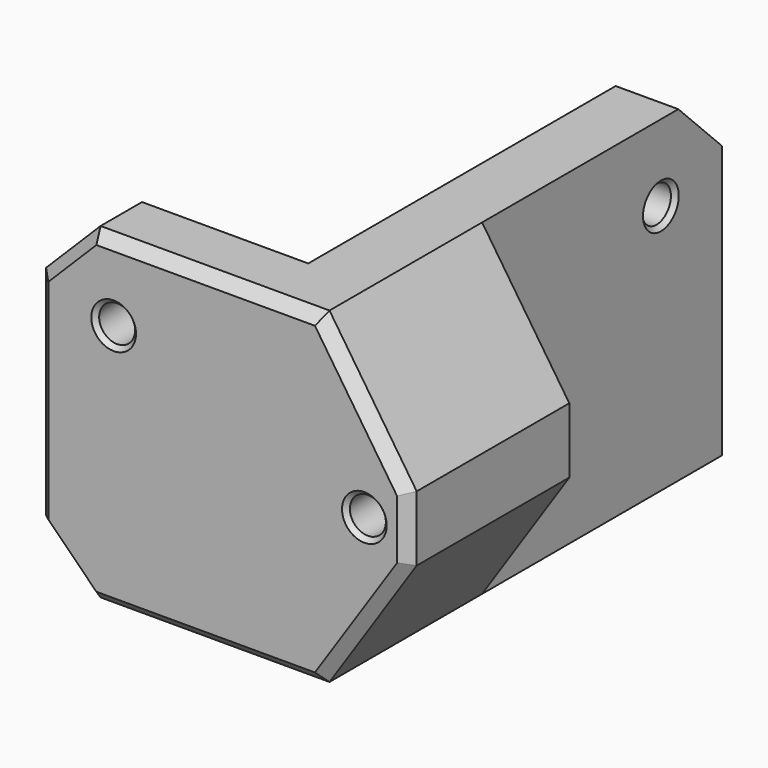
from build123d import *

# Parameters (mm, degrees)
SKETCH097_W              = 26
SKETCH097_H              = 46
PAD029_DEPTH             = 30
POCKET062_DEPTH          = 5
SKETCH099_W              = 20.25
SKETCH099_H              = 40.5
POCKET063_DEPTH          = 25
SKETCH100_R              = 1.6
PAD030_DEPTH             = 3
SKETCH101_W              = 8
SKETCH101_H              = 18.5
PAD031_DEPTH             = 30
POCKET064_DEPTH          = 46.001
SKETCH103_R              = 1.65
POCKET065_DEPTH          = 46.001
SKETCH104_R              = 1.65
POCKET066_DEPTH          = 26.001
CHAMFER009002001002_SIZE = 5
CHAMFER009002001003_SIZE = 5
CHAMFER009002001004_SIZE = 1
CHAMFER009002001005_SIZE = 0.4


with BuildPart() as part:
    # Sketch097 → Pad029 (new body)
    with BuildSketch(Plane.XY):
        with Locations((13, -3)):
            Rectangle(SKETCH097_W, SKETCH097_H)
    extrude(amount=PAD029_DEPTH)

    # Sketch098 (on Face5 of Pad029) → Pocket062 (cut)
    with BuildSketch(Plane(origin=(0, 0, 0), x_dir=(1, 0, 0), z_dir=(0, 0, -1))):
        with BuildLine():
            ThreePointArc((-6.067125, 20), (-14.778532, -14.778532), (20, -6.067125))
            Line((20, 6.067125), (20, -6.067125))
            ThreePointArc((20, 6.067125), (14.778532, 14.778532), (6.067125, 20))
            Line((-6.067125, 20), (6.067125, 20))
        make_face()
    extrude(amount=-POCKET062_DEPTH, mode=Mode.SUBTRACT)

    # Sketch099 (on Face6 of Pocket062) → Pocket063 (cut)
    with BuildSketch(Plane.XY.offset(30)):
        with Locations((10.125, 0)):
            Rectangle(SKETCH099_W, SKETCH099_H)
    extrude(amount=-POCKET063_DEPTH, mode=Mode.SUBTRACT)

    # Sketch100 (on Face7 of Pocket063) → Pad030 (join)
    with BuildSketch(Plane.XY.offset(5)):
        with Locations((16, 16)):
            Circle(SKETCH100_R)
        with Locations((16, -16)):
            Circle(SKETCH100_R)
    extrude(amount=PAD030_DEPTH)

    # Sketch101 (on Face5 of Pad030) → Pad031 (join)
    with BuildSketch(Plane.XY.offset(30)):
        with Locations((30, -16.75)):
            Rectangle(SKETCH101_W, SKETCH101_H)
    extrude(amount=-PAD031_DEPTH)

    # Sketch102 (on Face19 of Pad031) → Pocket064 (cut, through all)
    with BuildSketch(Plane.XZ.offset(26)):
        Polygon((34, 12), (26, 0), (34, 0), align=None)
        Polygon((34, 30), (26, 30), (34, 18), align=None)
    extrude(amount=-POCKET064_DEPTH, mode=Mode.SUBTRACT)

    # Sketch103 (on Face21 of Pocket064) → Pocket065 (cut, through all)
    with BuildSketch(Plane.XZ.offset(26)):
        with Locations((7, 23)):
            Circle(SKETCH103_R)
        with Locations((30, 15)):
            Circle(SKETCH103_R)
    extrude(amount=-POCKET065_DEPTH, mode=Mode.SUBTRACT)

    # Sketch104 (on Face4 of Pocket065) → Pocket066 (cut, through all)
    with BuildSketch(Plane.YZ.offset(26)):
        with Locations((13, 23)):
            Circle(SKETCH104_R)
    extrude(amount=-POCKET066_DEPTH, mode=Mode.SUBTRACT)

    # Chamfer009002001002
    chamfer009002001002_edges = [part.edges().sort_by_distance(p)[0] for p in [
        (0, -23.125, 30),
        (23.125, 20, 30),
        (0, -23, 0),
    ]]
    chamfer(chamfer009002001002_edges, length=CHAMFER009002001002_SIZE)

    # Chamfer009002001003
    chamfer009002001003_edges = [part.edges().sort_by_distance(p)[0] for p in [
        (6.067125, 20, 2.5),
    ]]
    chamfer(chamfer009002001003_edges, length=CHAMFER009002001003_SIZE)

    # Chamfer009002001004
    chamfer009002001004_edges = [part.edges().sort_by_distance(p)[0] for p in [
        (0, -26, 15),
        (2.5, -26, 2.5),
        (15.5, -26, 0),
        (30, -26, 6),
        (34, -26, 15),
        (30, -26, 24),
        (2.5, -26, 27.5),
        (15.5, -26, 30),
    ]]
    chamfer(chamfer009002001004_edges, length=CHAMFER009002001004_SIZE)

    # Chamfer009002001005
    chamfer009002001005_edges = [part.edges().sort_by_distance(p)[0] for p in [
        (5.35, -26, 23),
        (28.35, -26, 15),
        (28.35, -7.5, 15),
        (26, 11.35, 23),
        (14.4, 16, 8),
        (14.4, -16, 8),
        (5.35, -20.25, 23),
    ]]
    chamfer(chamfer009002001005_edges, length=CHAMFER009002001005_SIZE)


with BuildPart() as part_1:
    # Body011 placement: moved
    add(part.part.moved(Location((0, 0, -10))))


solid = part_1.part
